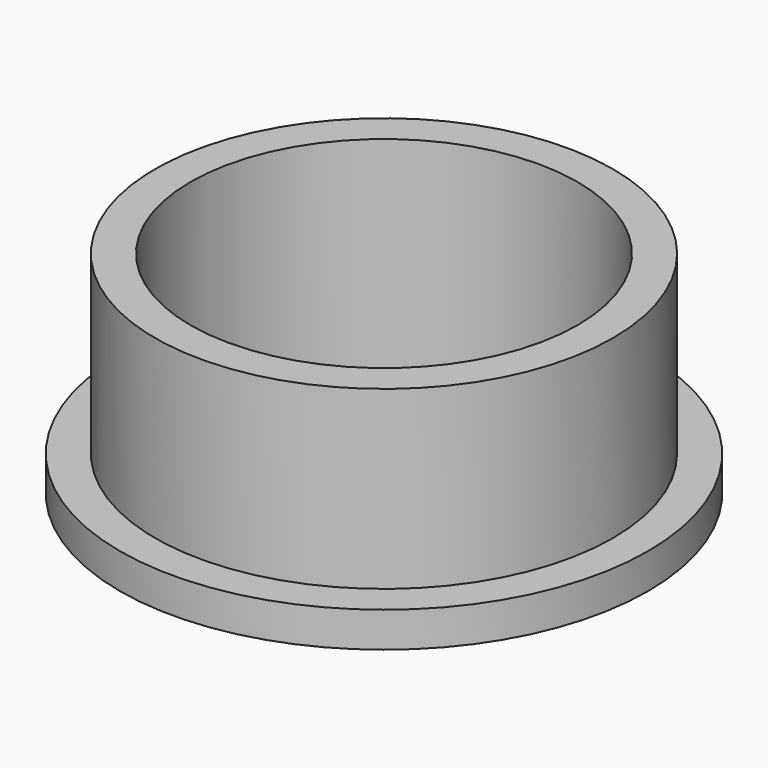
from build123d import *

# Parameters (mm, degrees)
SKETCH_R      = 15
SKETCH_R_2    = 11
PAD_DEPTH     = 2
SKETCH001_R   = 13
SKETCH001_R_2 = 11
PAD001_DEPTH  = 10


with BuildPart() as part:
    # Sketch → Pad (new body)
    with BuildSketch(Plane.XY):
        Circle(SKETCH_R)
        Circle(SKETCH_R_2, mode=Mode.SUBTRACT)
    extrude(amount=PAD_DEPTH)

    # Sketch001 (on Face4 of Pad) → Pad001 (join)
    with BuildSketch(Plane.XY.offset(2)):
        Circle(SKETCH001_R)
        Circle(SKETCH001_R_2, mode=Mode.SUBTRACT)
    extrude(amount=PAD001_DEPTH)


solid = part.part
